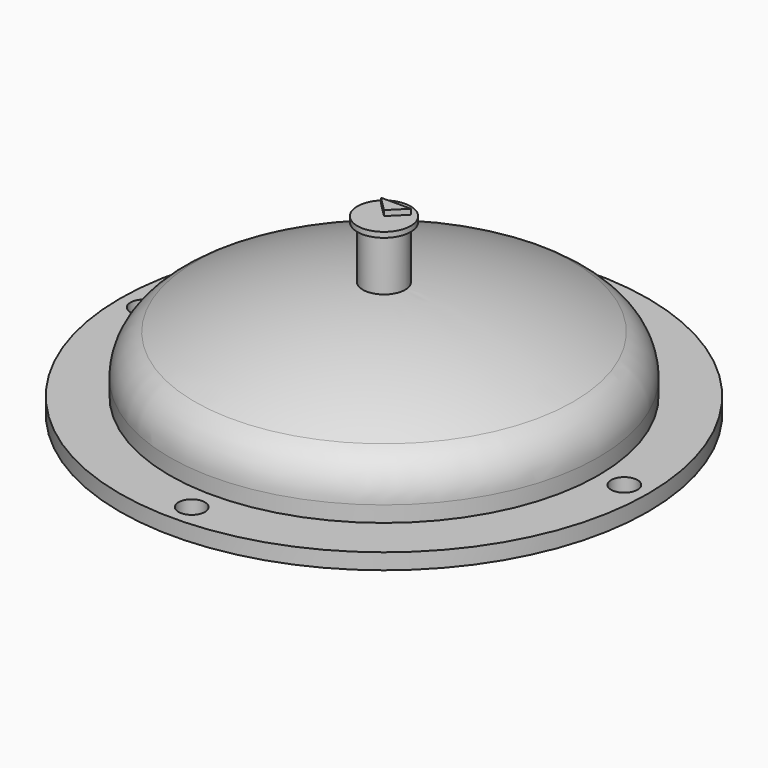
from build123d import *

# Parameters (mm, degrees)
F2_R          = 250
F2_R_2        = 192
F3_DEPTH      = 10
F3_DEPTH_BACK = 5
F5_R          = 20
F7_R          = 25.25
F8_DEPTH      = 5
F10_DEPTH     = 5
F11_R         = 12.5
F12_DEPTH     = 20
F13_R         = 200
F14_DEPTH     = 5


with BuildPart() as f1:
    # F0 (on Front) → F1 (revolve)
    with BuildSketch(Plane.XZ):
        with BuildLine():
            Line((200, 20), (200, 0))
            Line((200, 0), (203, 0))
            Line((203, 0), (203, 20))
            ThreePointArc((203, 20), (196.5493669363, 42.6526770285), (179.1328476019, 58.5088839444))
            ThreePointArc((179.1328476019, 58.5088839444), (92.0009441475, 89.9153591058), (0, 100.6000003082))
            Line((0, 100.6000003082), (0, 97.6))
            ThreePointArc((0, 97.6), (91.3153782925, 86.994742746), (177.7979977692, 55.8222176227))
            ThreePointArc((177.7979977692, 55.8222176227), (193.9994111035, 41.072257701), (200, 20))
        make_face()
    revolve(axis=Axis((0, 0, 99.1000001541), (0, 0, 1)))

    # F2 (on face) → F3 (join, two sides)
    with BuildSketch(Plane(origin=(0, 0, 0), x_dir=(1, 0, 0), z_dir=(0, 0, -1))) as f3_sk:
        Circle(F2_R)
        Circle(F2_R_2, mode=Mode.SUBTRACT)
    extrude(amount=F3_DEPTH)
    extrude(f3_sk.sketch, amount=-F3_DEPTH_BACK)

    # F5 (on offset) → F6 (join, up to the next surface of F1)
    with BuildSketch(Plane.XY.offset(150)):
        Circle(F5_R)
    extrude(until=Until.NEXT, dir=(0, 0, -1))

    # F7 (on face) → F8 (join)
    with BuildSketch(Plane.XY.offset(150)):
        Circle(F7_R)
    extrude(amount=F8_DEPTH)

    # F9 (on face) → F10 (join)
    with BuildSketch(Plane.XY.offset(155)):
        Polygon((-14.1421356237, 14.1421356237), (0, 0), (14.1421356237, 14.1421356237), align=None)
    extrude(amount=F10_DEPTH)

    # F11 (on face) → F12 (cut)
    with BuildSketch(Plane.XY.offset(5)):
        with Locations((227.5, 0)):
            Circle(F11_R)
        with Locations((0, 227.5)):
            Circle(F11_R)
        with Locations((-227.5, 0)):
            Circle(F11_R)
        with Locations((0, -227.5)):
            Circle(F11_R)
    extrude(amount=-F12_DEPTH, mode=Mode.SUBTRACT)

    # F13 (on face) → F14 (cut)
    with BuildSketch(Plane(origin=(0, 0, -10), x_dir=(1, 0, 0), z_dir=(0, 0, -1))):
        Circle(F13_R)
    extrude(amount=-F14_DEPTH, mode=Mode.SUBTRACT)


solid = f1.part
